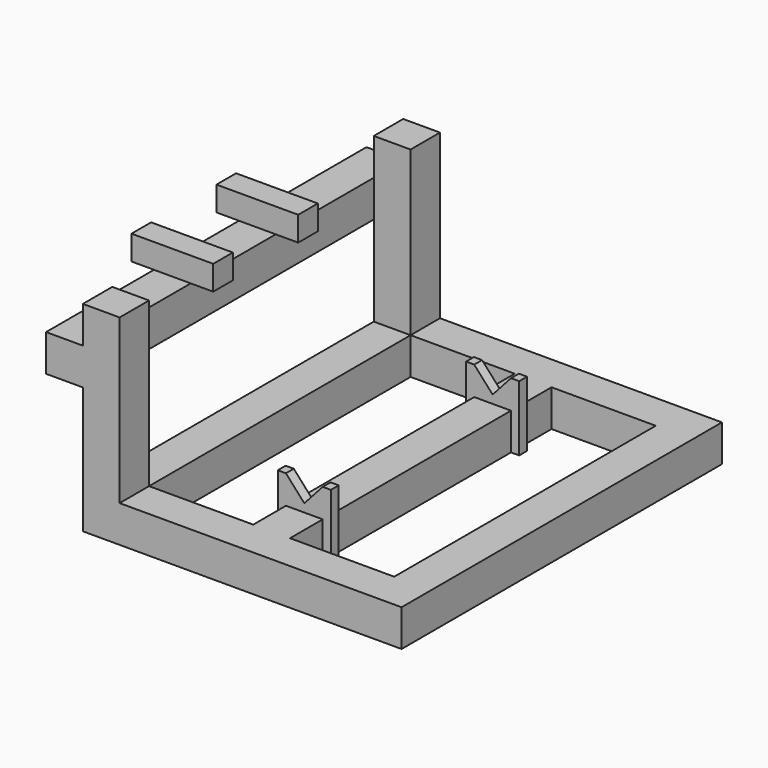
from build123d import *

# Parameters (mm, degrees)
F0_W      = 390
F0_H      = 490
F0_W_2    = 127.5
F0_H_2    = 400
F1_DEPTH  = 45
F2_W      = 45
F2_H      = 45
F3_DEPTH  = 200
F4_W      = 45
F4_H      = 45
F5_DEPTH  = 45
F6_W      = 45
F6_H      = 45
F7_DEPTH  = 445
F8_W      = 12
F8_H      = 45
F9_DEPTH  = 10
F10_W     = 12
F10_H     = 45
F11_DEPTH = 10
F13_DEPTH = 35
F15_DEPTH = 12
F16_W     = 12
F16_H     = 45
F17_DEPTH = 10
F18_W     = 12
F18_H     = 45
F19_DEPTH = 10
F21_DEPTH = 35
F23_DEPTH = 12
F24_W     = 45
F24_H     = 30
F25_DEPTH = 30
F26_W     = 30
F26_H     = 30
F27_DEPTH = 27.5
F28_W     = 30
F28_H     = 30
F29_DEPTH = 27.5


with BuildPart() as f1:
    # F0 (on Top) → F1 (new body)
    with BuildSketch(Plane.XY):
        with Locations((195, 245)):
            Rectangle(F0_W, F0_H)
        with Locations((108.75, 245)):
            Rectangle(F0_W_2, F0_H_2, mode=Mode.SUBTRACT)
        with Locations((281.25, 245)):
            Rectangle(F0_W_2, F0_H_2, mode=Mode.SUBTRACT)
    extrude(amount=F1_DEPTH)

    # F2 (on face) → F3 (join)
    with BuildSketch(Plane.XY.offset(45)):
        with Locations((22.5, 22.5)):
            Rectangle(F2_W, F2_H)
        with Locations((22.5, 467.5)):
            Rectangle(F2_W, F2_H)
    extrude(amount=F3_DEPTH)

    # F4 (on face) → F5 (join)
    with BuildSketch(Plane(origin=(0, 0, 0), x_dir=(0, -1, 0), z_dir=(-1, 0, 0))):
        with Locations((-467.5, 177.5)):
            Rectangle(F4_W, F4_H)
    extrude(amount=F5_DEPTH)

    # F6 (on face) → F7 (join)
    with BuildSketch(Plane.XZ.offset(-445)):
        with Locations((-22.5, 177.5)):
            Rectangle(F6_W, F6_H)
    extrude(amount=F7_DEPTH)

    # F8 (on face) → F9 (join)
    with BuildSketch(Plane.YZ.offset(217.5)):
        with Locations((101, 22.5)):
            Rectangle(F8_W, F8_H)
    extrude(amount=F9_DEPTH)

    # F10 (on face) → F11 (join)
    with BuildSketch(Plane(origin=(172.5, 0, 0), x_dir=(0, -1, 0), z_dir=(-1, 0, 0))):
        with Locations((-101, 22.5)):
            Rectangle(F10_W, F10_H)
    extrude(amount=F11_DEPTH)

    # F12 (on face) → F13 (join)
    with BuildSketch(Plane.XY.offset(45)):
        Polygon((217.5, 95), (227.5, 95), (227.5, 107), (217.5, 107), (172.5, 107), (162.5, 107), (162.5, 95), (172.5, 95), align=None)
    extrude(amount=F13_DEPTH)

    # F14 (on face) → F15 (cut)
    with BuildSketch(Plane(origin=(0, 107, 0), x_dir=(-1, 0, 0), z_dir=(0, 1, 0))):
        Polygon((-172.5, 80), (-217.5, 80), (-195, 55), align=None)
    extrude(amount=-F15_DEPTH, mode=Mode.SUBTRACT)

    # F16 (on face) → F17 (join)
    with BuildSketch(Plane.YZ.offset(217.5)):
        with Locations((389, 22.5)):
            Rectangle(F16_W, F16_H)
    extrude(amount=F17_DEPTH)

    # F18 (on face) → F19 (join)
    with BuildSketch(Plane(origin=(172.5, 0, 0), x_dir=(0, -1, 0), z_dir=(-1, 0, 0))):
        with Locations((-389, 22.5)):
            Rectangle(F18_W, F18_H)
    extrude(amount=F19_DEPTH)

    # F20 (on face) → F21 (join)
    with BuildSketch(Plane.XY.offset(45)):
        Polygon((227.5, 383), (227.5, 395), (217.5, 395), (172.5, 395), (162.5, 395), (162.5, 383), (172.5, 383), (217.5, 383), align=None)
    extrude(amount=F21_DEPTH)

    # F22 (on face) → F23 (cut)
    with BuildSketch(Plane.XZ.offset(-383)):
        Polygon((217.5, 80), (172.5, 80), (195, 55), align=None)
    extrude(amount=-F23_DEPTH, mode=Mode.SUBTRACT)

    # F24 (on face) → F25 (join)
    with BuildSketch(Plane.XY.offset(200)):
        with Locations((-22.5, 180)):
            Rectangle(F24_W, F24_H)
        with Locations((-22.5, 310)):
            Rectangle(F24_W, F24_H)
    extrude(amount=F25_DEPTH)

    # F26 (on face) → F27 (join)
    with BuildSketch(Plane.YZ):
        with Locations((310, 215)):
            Rectangle(F26_W, F26_H)
        with Locations((180, 215)):
            Rectangle(F26_W, F26_H)
    extrude(amount=F27_DEPTH)

    # F28 (on face) → F29 (join)
    with BuildSketch(Plane(origin=(-45, 0, 0), x_dir=(0, -1, 0), z_dir=(-1, 0, 0))):
        with Locations((-310, 215)):
            Rectangle(F28_W, F28_H)
        with Locations((-180, 215)):
            Rectangle(F28_W, F28_H)
    extrude(amount=F29_DEPTH)


solid = f1.part
